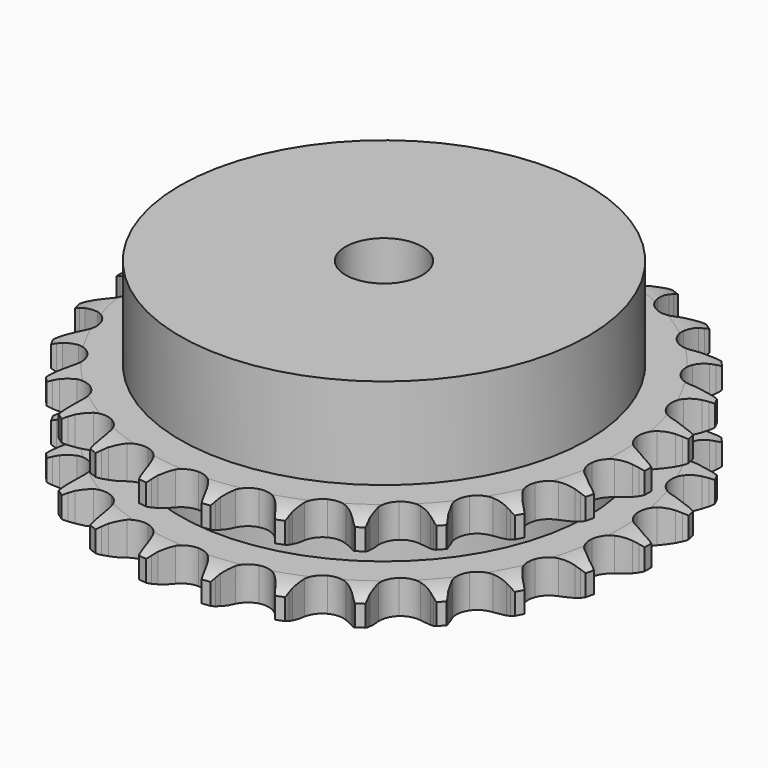
from build123d import *

# Parameters (mm, degrees)
PAD_DEPTH         = 21
SKETCH001_R       = 42.5
PAD001_DEPTH      = 40
SKETCH002_R       = 8
POCKET_DEPTH      = 0.001
POCKET_DEPTH_BACK = 40.001


with BuildPart() as part:
    # Sprocket → Pad (new body)
    with BuildSketch(Plane.XY):
        with BuildLine():
            ThreePointArc((-6.807588, 56.065527), (-5.967528, 54.999781), (-5.35026, 53.791272))
            Line((-5.35026, 53.791272), (-4.936158, 52.737939))
            ThreePointArc((-4.936158, 52.737939), (-4.276403, 51.349942), (-3.43162, 50.066137))
            ThreePointArc((-3.43162, 50.066137), (-1.91469, 48.814822), (0, 48.366684))
            ThreePointArc((0, 48.366684), (1.91469, 48.814822), (3.43162, 50.066137))
            ThreePointArc((3.43162, 50.066137), (4.276403, 51.349942), (4.936158, 52.737939))
            Line((4.936158, 52.737939), (5.35026, 53.791272))
            ThreePointArc((5.35026, 53.791272), (5.967528, 54.999781), (6.807588, 56.065527))
            ThreePointArc((6.807588, 56.065527), (7.368186, 54.829711), (7.678303, 53.508597))
            Line((7.678303, 53.508597), (7.828293, 52.38677))
            ThreePointArc((7.828293, 52.38677), (8.136707, 50.881216), (8.649708, 49.432547))
            ThreePointArc((8.649708, 49.432547), (9.823099, 47.854567), (11.574905, 46.961236))
            ThreePointArc((11.574905, 46.961236), (13.541204, 46.938136), (15.313514, 47.790066))
            Line((15.313514, 47.790066), (17.413737, 50.02417))
            ThreePointArc((17.413737, 50.02417), (17.729055, 50.494309), (18.067885, 50.947795))
            ThreePointArc((18.067885, 50.947795), (18.956432, 51.973465), (20.02713, 52.807203))
            ThreePointArc((20.02713, 52.807203), (20.275689, 51.473137), (20.260631, 50.116196))
            Line((20.260631, 50.116196), (20.137792, 48.991073))
            ThreePointArc((20.137792, 48.991073), (20.076941, 47.455459), (20.228346, 45.926116))
            ThreePointArc((20.228346, 45.926116), (20.990005, 44.113179), (22.477119, 42.826572))
            ThreePointArc((22.477119, 42.826572), (24.380753, 42.333577), (26.305443, 42.73661))
            Line((26.305443, 42.73661), (28.879293, 44.403179))
            ThreePointArc((28.879293, 44.403179), (29.29796, 44.784195), (29.735471, 45.143416))
            ThreePointArc((29.735471, 45.143416), (30.843657, 45.926639), (32.082769, 46.479915))
            ThreePointArc((32.082769, 46.479915), (32.004842, 45.125131), (31.665484, 43.811224))
            Line((31.665484, 43.811224), (31.276955, 42.748192))
            ThreePointArc((31.276955, 42.748192), (30.850376, 41.271763), (30.631386, 39.750627))
            ThreePointArc((30.631386, 39.750627), (30.937048, 37.808093), (32.073044, 36.202983))
            ThreePointArc((32.073044, 36.202983), (33.803381, 35.268744), (35.768594, 35.199457))
            Line((35.768594, 35.199457), (38.666489, 36.201636))
            ThreePointArc((38.666489, 36.201636), (39.164174, 36.471387), (39.674939, 36.715467))
            ThreePointArc((39.674939, 36.715467), (40.93836, 37.210724), (42.273874, 37.451384))
            ThreePointArc((42.273874, 37.451384), (41.87399, 36.154616), (41.230055, 34.960103))
            Line((41.230055, 34.960103), (40.598416, 34.020942))
            ThreePointArc((40.598416, 34.020942), (39.8309, 32.689502), (39.254241, 31.264975))
            ThreePointArc((39.254241, 31.264975), (39.086143, 29.305739), (39.805001, 27.475408))
            ThreePointArc((39.805001, 27.475408), (41.261479, 26.15422), (43.153006, 25.61664))
            Line((43.153006, 25.61664), (46.20653, 25.896186))
            ThreePointArc((46.20653, 25.896186), (46.754308, 26.038995), (47.308644, 26.153748))
            ThreePointArc((47.308644, 26.153748), (48.653875, 26.332257), (50.008175, 26.246315))
            ThreePointArc((50.008175, 26.246315), (49.309574, 25.082927), (48.398485, 24.077228))
            Line((48.398485, 24.077228), (47.560444, 23.316518))
            ThreePointArc((47.560444, 23.316518), (46.496596, 22.207446), (45.595782, 20.962317))
            ThreePointArc((45.595782, 20.962317), (44.963693, 19.100241), (45.223635, 17.151063))
            ThreePointArc((45.223635, 17.151063), (46.32161, 15.519708), (48.029521, 14.545077))
            Line((48.029521, 14.545077), (51.061215, 14.085743))
            ThreePointArc((51.061215, 14.085743), (51.627253, 14.09331), (52.192942, 14.072068))
            ThreePointArc((52.192942, 14.072068), (53.541804, 13.923455), (54.836182, 13.515905))
            ThreePointArc((54.836182, 13.515905), (53.879465, 12.553509), (52.754171, 11.795072))
            Line((52.754171, 11.795072), (51.758432, 11.257024))
            ThreePointArc((51.758432, 11.257024), (50.460079, 10.434775), (49.287463, 9.441405))
            ThreePointArc((49.287463, 9.441405), (48.228116, 7.784707), (48.014037, 5.82996))
            ThreePointArc((48.014037, 5.82996), (48.689697, 3.983247), (50.114735, 2.628207))
            Line((50.114735, 2.628207), (52.948408, 1.456689))
            ThreePointArc((52.948408, 1.456689), (53.499808, 1.328574), (54.043976, 1.172571))
            ThreePointArc((54.043976, 1.172571), (55.318077, 0.705473), (56.47731, 0))
            ThreePointArc((56.47731, 0), (55.318077, -0.705473), (54.043976, -1.172571))
            Line((54.043976, -1.172571), (52.948408, -1.456689))
            ThreePointArc((52.948408, -1.456689), (51.491006, -1.944328), (50.114735, -2.628207))
            ThreePointArc((50.114735, -2.628207), (48.689697, -3.983247), (48.014037, -5.82996))
            ThreePointArc((48.014037, -5.82996), (48.228116, -7.784707), (49.287463, -9.441405))
            Line((49.287463, -9.441405), (51.758432, -11.257024))
            ThreePointArc((51.758432, -11.257024), (52.26315, -11.513374), (52.754171, -11.795072))
            ThreePointArc((52.754171, -11.795072), (53.879465, -12.553509), (54.836182, -13.515905))
            ThreePointArc((54.836182, -13.515905), (53.541804, -13.923455), (52.192942, -14.072068))
            Line((52.192942, -14.072068), (51.061215, -14.085743))
            ThreePointArc((51.061215, -14.085743), (49.529463, -14.210434), (48.029521, -14.545077))
            ThreePointArc((48.029521, -14.545077), (46.32161, -15.519708), (45.223635, -17.151063))
            ThreePointArc((45.223635, -17.151063), (44.963693, -19.100241), (45.595782, -20.962317))
            Line((45.595782, -20.962317), (47.560444, -23.316518))
            ThreePointArc((47.560444, -23.316518), (47.989147, -23.686207), (48.398485, -24.077228))
            ThreePointArc((48.398485, -24.077228), (49.309574, -25.082927), (50.008175, -26.246315))
            ThreePointArc((50.008175, -26.246315), (48.653875, -26.332257), (47.308644, -26.153748))
            Line((47.308644, -26.153748), (46.20653, -25.896186))
            ThreePointArc((46.20653, -25.896186), (44.689447, -25.650681), (43.153006, -25.61664))
            ThreePointArc((43.153006, -25.61664), (41.261479, -26.15422), (39.805001, -27.475408))
            ThreePointArc((39.805001, -27.475408), (39.086143, -29.305739), (39.254241, -31.264975))
            Line((39.254241, -31.264975), (40.598416, -34.020942))
            ThreePointArc((40.598416, -34.020942), (40.926189, -34.482483), (41.230055, -34.960103))
            ThreePointArc((41.230055, -34.960103), (41.87399, -36.154616), (42.273874, -37.451384))
            ThreePointArc((42.273874, -37.451384), (40.93836, -37.210724), (39.674939, -36.715467))
            Line((39.674939, -36.715467), (38.666489, -36.201636))
            ThreePointArc((38.666489, -36.201636), (37.252243, -35.600204), (35.768594, -35.199457))
            ThreePointArc((35.768594, -35.199457), (33.803381, -35.268744), (32.073044, -36.202983))
            ThreePointArc((32.073044, -36.202983), (30.937048, -37.808093), (30.631386, -39.750627))
            Line((30.631386, -39.750627), (31.276955, -42.748192))
            ThreePointArc((31.276955, -42.748192), (31.48475, -43.274763), (31.665484, -43.811224))
            ThreePointArc((31.665484, -43.811224), (32.004842, -45.125131), (32.082769, -46.479915))
            ThreePointArc((32.082769, -46.479915), (30.843657, -45.926639), (29.735471, -45.143416))
            Line((29.735471, -45.143416), (28.879293, -44.403179))
            ThreePointArc((28.879293, -44.403179), (27.650075, -43.480772), (26.305443, -42.73661))
            ThreePointArc((26.305443, -42.73661), (24.380753, -42.333577), (22.477119, -42.826572))
            ThreePointArc((22.477119, -42.826572), (20.990005, -44.113179), (20.228346, -45.926116))
            Line((20.228346, -45.926116), (20.137792, -48.991073))
            ThreePointArc((20.137792, -48.991073), (20.213532, -49.552071), (20.260631, -50.116196))
            ThreePointArc((20.260631, -50.116196), (20.275689, -51.473137), (20.02713, -52.807203))
            ThreePointArc((20.02713, -52.807203), (18.956432, -51.973465), (18.067885, -50.947795))
            Line((18.067885, -50.947795), (17.413737, -50.02417))
            ThreePointArc((17.413737, -50.02417), (16.440984, -48.834396), (15.313514, -47.790066))
            ThreePointArc((15.313514, -47.790066), (13.541204, -46.938136), (11.574905, -46.961236))
            ThreePointArc((11.574905, -46.961236), (9.823099, -47.854567), (8.649708, -49.432547))
            Line((8.649708, -49.432547), (7.828293, -52.38677))
            ThreePointArc((7.828293, -52.38677), (7.767577, -52.949593), (7.678303, -53.508597))
            ThreePointArc((7.678303, -53.508597), (7.368186, -54.829711), (6.807588, -56.065527))
            ThreePointArc((6.807588, -56.065527), (5.967528, -54.999781), (5.35026, -53.791272))
            Line((5.35026, -53.791272), (4.936158, -52.737939))
            ThreePointArc((4.936158, -52.737939), (4.276403, -51.349942), (3.43162, -50.066137))
            ThreePointArc((3.43162, -50.066137), (1.91469, -48.814822), (0, -48.366684))
            ThreePointArc((0, -48.366684), (-1.91469, -48.814822), (-3.43162, -50.066137))
            Line((-3.43162, -50.066137), (-4.936158, -52.737939))
            ThreePointArc((-4.936158, -52.737939), (-5.129802, -53.269876), (-5.35026, -53.791272))
            ThreePointArc((-5.35026, -53.791272), (-5.967528, -54.999781), (-6.807588, -56.065527))
            ThreePointArc((-6.807588, -56.065527), (-7.368186, -54.829711), (-7.678303, -53.508597))
            Line((-7.678303, -53.508597), (-7.828293, -52.38677))
            ThreePointArc((-7.828293, -52.38677), (-8.136707, -50.881216), (-8.649708, -49.432547))
            ThreePointArc((-8.649708, -49.432547), (-9.823099, -47.854567), (-11.574905, -46.961236))
            ThreePointArc((-11.574905, -46.961236), (-13.541204, -46.938136), (-15.313514, -47.790066))
            Line((-15.313514, -47.790066), (-17.413737, -50.02417))
            ThreePointArc((-17.413737, -50.02417), (-17.729055, -50.494309), (-18.067885, -50.947795))
            ThreePointArc((-18.067885, -50.947795), (-18.956432, -51.973465), (-20.02713, -52.807203))
            ThreePointArc((-20.02713, -52.807203), (-20.275689, -51.473137), (-20.260631, -50.116196))
            Line((-20.260631, -50.116196), (-20.137792, -48.991073))
            ThreePointArc((-20.137792, -48.991073), (-20.076941, -47.455459), (-20.228346, -45.926116))
            ThreePointArc((-20.228346, -45.926116), (-20.990005, -44.113179), (-22.477119, -42.826572))
            ThreePointArc((-22.477119, -42.826572), (-24.380753, -42.333577), (-26.305443, -42.73661))
            Line((-26.305443, -42.73661), (-28.879293, -44.403179))
            ThreePointArc((-28.879293, -44.403179), (-29.29796, -44.784195), (-29.735471, -45.143416))
            ThreePointArc((-29.735471, -45.143416), (-30.843657, -45.926639), (-32.082769, -46.479915))
            ThreePointArc((-32.082769, -46.479915), (-32.004842, -45.125131), (-31.665484, -43.811224))
            Line((-31.665484, -43.811224), (-31.276955, -42.748192))
            ThreePointArc((-31.276955, -42.748192), (-30.850376, -41.271763), (-30.631386, -39.750627))
            ThreePointArc((-30.631386, -39.750627), (-30.937048, -37.808093), (-32.073044, -36.202983))
            ThreePointArc((-32.073044, -36.202983), (-33.803381, -35.268744), (-35.768594, -35.199457))
            Line((-35.768594, -35.199457), (-38.666489, -36.201636))
            ThreePointArc((-38.666489, -36.201636), (-39.164174, -36.471387), (-39.674939, -36.715467))
            ThreePointArc((-39.674939, -36.715467), (-40.93836, -37.210724), (-42.273874, -37.451384))
            ThreePointArc((-42.273874, -37.451384), (-41.87399, -36.154616), (-41.230055, -34.960103))
            Line((-41.230055, -34.960103), (-40.598416, -34.020942))
            ThreePointArc((-40.598416, -34.020942), (-39.8309, -32.689502), (-39.254241, -31.264975))
            ThreePointArc((-39.254241, -31.264975), (-39.086143, -29.305739), (-39.805001, -27.475408))
            ThreePointArc((-39.805001, -27.475408), (-41.261479, -26.15422), (-43.153006, -25.61664))
            Line((-43.153006, -25.61664), (-46.20653, -25.896186))
            ThreePointArc((-46.20653, -25.896186), (-46.754308, -26.038995), (-47.308644, -26.153748))
            ThreePointArc((-47.308644, -26.153748), (-48.653875, -26.332257), (-50.008175, -26.246315))
            ThreePointArc((-50.008175, -26.246315), (-49.309574, -25.082927), (-48.398485, -24.077228))
            Line((-48.398485, -24.077228), (-47.560444, -23.316518))
            ThreePointArc((-47.560444, -23.316518), (-46.496596, -22.207446), (-45.595782, -20.962317))
            ThreePointArc((-45.595782, -20.962317), (-44.963693, -19.100241), (-45.223635, -17.151063))
            ThreePointArc((-45.223635, -17.151063), (-46.32161, -15.519708), (-48.029521, -14.545077))
            Line((-48.029521, -14.545077), (-51.061215, -14.085743))
            ThreePointArc((-51.061215, -14.085743), (-51.627253, -14.09331), (-52.192942, -14.072068))
            ThreePointArc((-52.192942, -14.072068), (-53.541804, -13.923455), (-54.836182, -13.515905))
            ThreePointArc((-54.836182, -13.515905), (-53.879465, -12.553509), (-52.754171, -11.795072))
            Line((-52.754171, -11.795072), (-51.758432, -11.257024))
            ThreePointArc((-51.758432, -11.257024), (-50.460079, -10.434775), (-49.287463, -9.441405))
            ThreePointArc((-49.287463, -9.441405), (-48.228116, -7.784707), (-48.014037, -5.82996))
            ThreePointArc((-48.014037, -5.82996), (-48.689697, -3.983247), (-50.114735, -2.628207))
            Line((-50.114735, -2.628207), (-52.948408, -1.456689))
            ThreePointArc((-52.948408, -1.456689), (-53.499808, -1.328574), (-54.043976, -1.172571))
            ThreePointArc((-54.043976, -1.172571), (-55.318077, -0.705473), (-56.47731, 0))
            ThreePointArc((-56.47731, 0), (-55.318077, 0.705473), (-54.043976, 1.172571))
            Line((-54.043976, 1.172571), (-52.948408, 1.456689))
            ThreePointArc((-52.948408, 1.456689), (-51.491006, 1.944328), (-50.114735, 2.628207))
            ThreePointArc((-50.114735, 2.628207), (-48.689697, 3.983247), (-48.014037, 5.82996))
            ThreePointArc((-48.014037, 5.82996), (-48.228116, 7.784707), (-49.287463, 9.441405))
            Line((-49.287463, 9.441405), (-51.758432, 11.257024))
            ThreePointArc((-51.758432, 11.257024), (-52.26315, 11.513374), (-52.754171, 11.795072))
            ThreePointArc((-52.754171, 11.795072), (-53.879465, 12.553509), (-54.836182, 13.515905))
            ThreePointArc((-54.836182, 13.515905), (-53.541804, 13.923455), (-52.192942, 14.072068))
            Line((-52.192942, 14.072068), (-51.061215, 14.085743))
            ThreePointArc((-51.061215, 14.085743), (-49.529463, 14.210434), (-48.029521, 14.545077))
            ThreePointArc((-48.029521, 14.545077), (-46.32161, 15.519708), (-45.223635, 17.151063))
            ThreePointArc((-45.223635, 17.151063), (-44.963693, 19.100241), (-45.595782, 20.962317))
            Line((-45.595782, 20.962317), (-47.560444, 23.316518))
            ThreePointArc((-47.560444, 23.316518), (-47.989147, 23.686207), (-48.398485, 24.077228))
            ThreePointArc((-48.398485, 24.077228), (-49.309574, 25.082927), (-50.008175, 26.246315))
            ThreePointArc((-50.008175, 26.246315), (-48.653875, 26.332257), (-47.308644, 26.153748))
            Line((-47.308644, 26.153748), (-46.20653, 25.896186))
            ThreePointArc((-46.20653, 25.896186), (-44.689447, 25.650681), (-43.153006, 25.61664))
            ThreePointArc((-43.153006, 25.61664), (-41.261479, 26.15422), (-39.805001, 27.475408))
            ThreePointArc((-39.805001, 27.475408), (-39.086143, 29.305739), (-39.254241, 31.264975))
            Line((-39.254241, 31.264975), (-40.598416, 34.020942))
            ThreePointArc((-40.598416, 34.020942), (-40.926189, 34.482483), (-41.230055, 34.960103))
            ThreePointArc((-41.230055, 34.960103), (-41.87399, 36.154616), (-42.273874, 37.451384))
            ThreePointArc((-42.273874, 37.451384), (-40.93836, 37.210724), (-39.674939, 36.715467))
            Line((-39.674939, 36.715467), (-38.666489, 36.201636))
            ThreePointArc((-38.666489, 36.201636), (-37.252243, 35.600204), (-35.768594, 35.199457))
            ThreePointArc((-35.768594, 35.199457), (-33.803381, 35.268744), (-32.073044, 36.202983))
            ThreePointArc((-32.073044, 36.202983), (-30.937048, 37.808093), (-30.631386, 39.750627))
            Line((-30.631386, 39.750627), (-31.276955, 42.748192))
            ThreePointArc((-31.276955, 42.748192), (-31.48475, 43.274763), (-31.665484, 43.811224))
            ThreePointArc((-31.665484, 43.811224), (-32.004842, 45.125131), (-32.082769, 46.479915))
            ThreePointArc((-32.082769, 46.479915), (-30.843657, 45.926639), (-29.735471, 45.143416))
            Line((-29.735471, 45.143416), (-28.879293, 44.403179))
            ThreePointArc((-28.879293, 44.403179), (-27.650075, 43.480772), (-26.305443, 42.73661))
            ThreePointArc((-26.305443, 42.73661), (-24.380753, 42.333577), (-22.477119, 42.826572))
            ThreePointArc((-22.477119, 42.826572), (-20.990005, 44.113179), (-20.228346, 45.926116))
            Line((-20.228346, 45.926116), (-20.137792, 48.991073))
            ThreePointArc((-20.137792, 48.991073), (-20.213532, 49.552071), (-20.260631, 50.116196))
            ThreePointArc((-20.260631, 50.116196), (-20.275689, 51.473137), (-20.02713, 52.807203))
            ThreePointArc((-20.02713, 52.807203), (-18.956432, 51.973465), (-18.067885, 50.947795))
            Line((-18.067885, 50.947795), (-17.413737, 50.02417))
            ThreePointArc((-17.413737, 50.02417), (-16.440984, 48.834396), (-15.313514, 47.790066))
            ThreePointArc((-15.313514, 47.790066), (-13.541204, 46.938136), (-11.574905, 46.961236))
            ThreePointArc((-11.574905, 46.961236), (-9.823099, 47.854567), (-8.649708, 49.432547))
            Line((-8.649708, 49.432547), (-7.828293, 52.38677))
            ThreePointArc((-7.828293, 52.38677), (-7.767577, 52.949593), (-7.678303, 53.508597))
            ThreePointArc((-7.678303, 53.508597), (-7.368186, 54.829711), (-6.807588, 56.065527))
        make_face()
    extrude(amount=PAD_DEPTH)

    # Sketch → Groove (revolve, cut)
    with BuildSketch(Plane.XZ):
        with BuildLine():
            ThreePointArc((49.333431, 0), (52.24032, 0.329167), (55, 1.3))
            Line((55, 1.3), (55, 5.7))
            ThreePointArc((55, 5.7), (52.24032, 6.670833), (49.333431, 7))
            Line((42.5, 7), (49.333431, 7))
            Line((42.5, 14), (42.5, 7))
            Line((49.333431, 14), (42.5, 14))
            ThreePointArc((49.333431, 14), (52.24032, 14.329167), (55, 15.3))
            Line((55, 15.3), (55, 19.7))
            ThreePointArc((55, 19.7), (52.24032, 20.670833), (49.333431, 21))
            Line((49.333431, 21), (59.333431, 21))
            Line((59.333431, 21), (59.333431, 0))
            Line((49.333431, 0), (59.333431, 0))
        make_face()
    revolve(axis=Axis((0, 0, 0), (0, 0, 1)), mode=Mode.SUBTRACT)

    # Sketch001 → Pad001 (join)
    with BuildSketch(Plane.XY):
        Circle(SKETCH001_R)
    extrude(amount=PAD001_DEPTH)

    # Sketch002 → Pocket (cut, two sides)
    with BuildSketch(Plane.XY) as pocket_sk:
        Circle(SKETCH002_R)
    extrude(amount=-POCKET_DEPTH, mode=Mode.SUBTRACT)
    extrude(pocket_sk.sketch, amount=POCKET_DEPTH_BACK, mode=Mode.SUBTRACT)


solid = part.part
